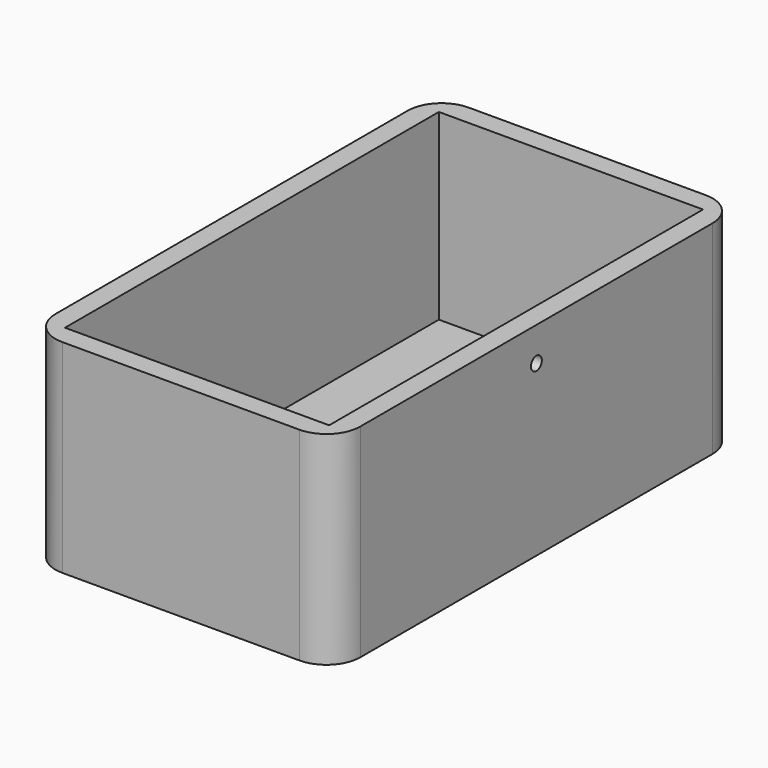
from build123d import *

# Parameters (mm, degrees)
F0_W     = 45
F0_H     = 75
F1_DEPTH = 30
F2_W     = 39
F2_H     = 69
F3_DEPTH = 27
F4_R     = 5
F5_R     = 1
F6_DEPTH = 3


with BuildPart() as f1:
    # F0 (on Top) → F1 (new body)
    with BuildSketch(Plane.XY):
        Rectangle(F0_W, F0_H)
    extrude(amount=F1_DEPTH)

    # F2 (on face) → F3 (cut)
    with BuildSketch(Plane.XY.offset(30)):
        Rectangle(F2_W, F2_H)
    extrude(amount=-F3_DEPTH, mode=Mode.SUBTRACT)

    # F4
    f4_edges = [f1.edges().sort_by_distance(p)[0] for p in [
        (22.5, -37.5, 15),
        (-22.5, -37.5, 15),
        (22.5, 37.5, 15),
        (-22.5, 37.5, 15),
    ]]
    fillet(f4_edges, radius=F4_R)

    # F5 (on face) → F6 (cut)
    with BuildSketch(Plane.YZ.offset(22.5)):
        with Locations((0, 25)):
            Circle(F5_R)
    extrude(amount=-F6_DEPTH, mode=Mode.SUBTRACT)


solid = f1.part
